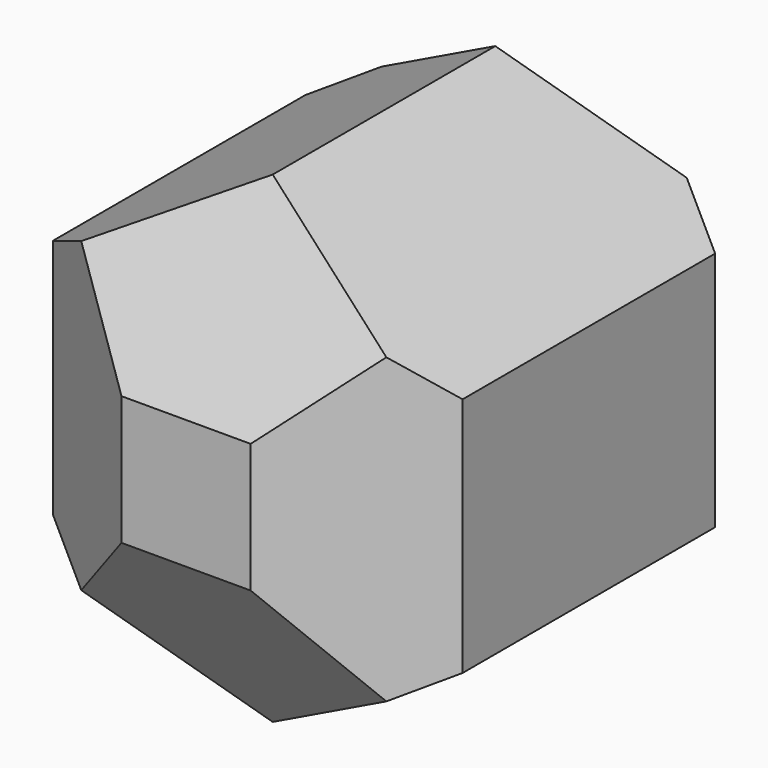
from build123d import *

# Parameters (mm, degrees)
F1_DEPTH = 15
F3_DEPTH = 15
F5_DEPTH = 15


with BuildPart() as f1:
    # F0 (on Top) → F1 (new body, symmetric)
    with BuildSketch(Plane.XY):
        Polygon((14.639726, -9.256264), (15.336023, 8.050243), (0.696296, 17.306507), (-14.639726, 9.256264), (-15.336023, -8.050243), (-0.696296, -17.306507), align=None)
    extrude(amount=F1_DEPTH, both=True)

    # F2 (on Right) → F3 (intersect, symmetric)
    with BuildSketch(Plane.YZ):
        Polygon((8.660254, 15), (-8.660254, 15), (-17.320508, 0), (-8.660254, -15), (8.660254, -15), (17.320508, 0), align=None)
    extrude(amount=F3_DEPTH, both=True, mode=Mode.INTERSECT)

    # F4 (on Front) → F5 (intersect, symmetric)
    with BuildSketch(Plane.XZ):
        Polygon((-12.990381, 7.5), (-12.990381, -7.5), (0, -15), (12.990381, -7.5), (12.990381, 7.5), (0, 15), align=None)
    extrude(amount=F5_DEPTH, both=True, mode=Mode.INTERSECT)


solid = f1.part
